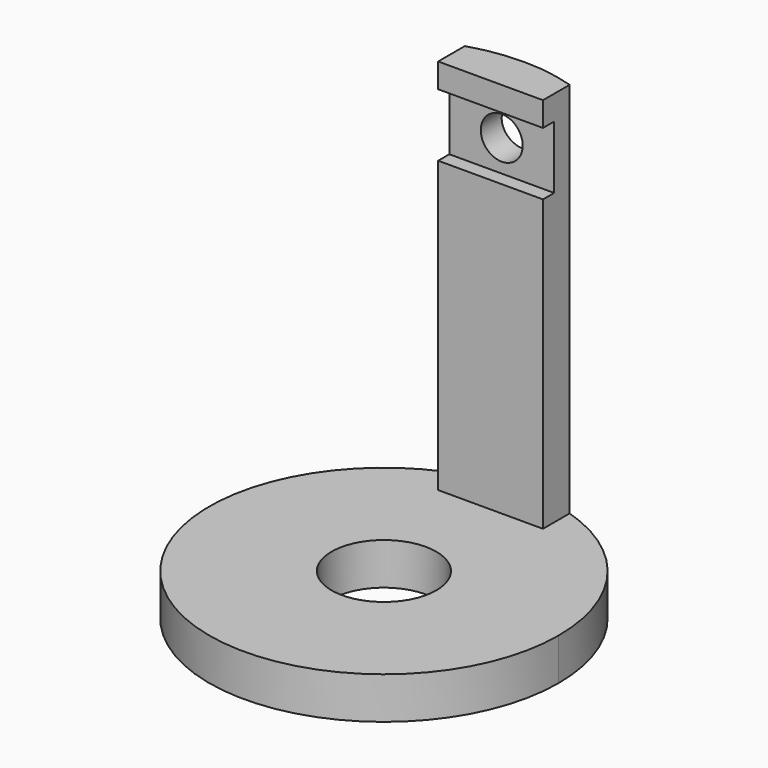
from build123d import *

# Parameters (mm, degrees)
F0_R     = 9.525
F0_W     = 19.05
F0_H     = 2.596250779
F1_DEPTH = 7.62
F2_DEPTH = 76.2
F3_R     = 3.81
F4_DEPTH = 25.4
F3_W     = 19.05
F3_H     = 11.43
F5_DEPTH = 2.54


with BuildPart() as f1:
    # F0 (on Top) → F1 (new body)
    with BuildSketch(Plane.XY):
        with BuildLine():
            Line((9.525, 24.2291148752), (9.525, 30.287569645))
            ThreePointArc((9.525, 30.287569645), (0, 31.75), (-9.525, 30.287569645))
            Line((-9.525, 30.287569645), (-9.525, 24.2291148752))
            Line((-9.525, 24.2291148752), (9.525, 24.2291148752))
        make_face()
        with BuildLine():
            ThreePointArc((-9.525, 30.287569645), (-18.7835533113, -25.5976683508), (31.75, 0))
            ThreePointArc((31.75, 0), (25.5976683508, 18.7835533113), (9.525, 30.287569645))
            Line((9.525, 30.287569645), (9.525, 24.2291148752))
            Line((9.525, 24.2291148752), (9.525, 21.6328640962))
            Line((9.525, 21.6328640962), (-9.525, 21.6328640962))
            Line((-9.525, 21.6328640962), (-9.525, 24.2291148752))
            Line((-9.525, 24.2291148752), (-9.525, 30.287569645))
        make_face()
        Circle(F0_R, mode=Mode.SUBTRACT)
        with BuildLine():
            ThreePointArc((-9.525, 30.287569645), (-18.7835533113, -25.5976683508), (31.75, 0))
            ThreePointArc((31.75, 0), (25.5976683508, 18.7835533113), (9.525, 30.287569645))
            Line((9.525, 30.287569645), (9.525, 24.2291148752))
            Line((9.525, 24.2291148752), (9.525, 21.6328640962))
            Line((9.525, 21.6328640962), (-9.525, 21.6328640962))
            Line((-9.525, 21.6328640962), (-9.525, 24.2291148752))
            Line((-9.525, 24.2291148752), (-9.525, 30.287569645))
        make_face()
        Circle(F0_R, mode=Mode.SUBTRACT)
        with Locations((0, 22.9309894857)):
            Rectangle(F0_W, F0_H)
    extrude(amount=F1_DEPTH)

    # F0 (on Top) → F2 (join)
    with BuildSketch(Plane.XY):
        with BuildLine():
            Line((9.525, 24.2291148752), (9.525, 30.287569645))
            ThreePointArc((9.525, 30.287569645), (0, 31.75), (-9.525, 30.287569645))
            Line((-9.525, 30.287569645), (-9.525, 24.2291148752))
            Line((-9.525, 24.2291148752), (9.525, 24.2291148752))
        make_face()
    extrude(amount=F2_DEPTH)

    # F3 (on face) → F4 (cut)
    with BuildSketch(Plane.XZ.offset(-24.2291148752)):
        with Locations((0, 66.04)):
            Circle(F3_R)
    extrude(amount=-F4_DEPTH, mode=Mode.SUBTRACT)

    # F3 (on face) → F5 (cut)
    with BuildSketch(Plane.XZ.offset(-24.2291148752)):
        with Locations((0, 66.04)):
            Rectangle(F3_W, F3_H)
        with Locations((0, 66.04)):
            Circle(F3_R, mode=Mode.SUBTRACT)
    extrude(amount=-F5_DEPTH, mode=Mode.SUBTRACT)


solid = f1.part
